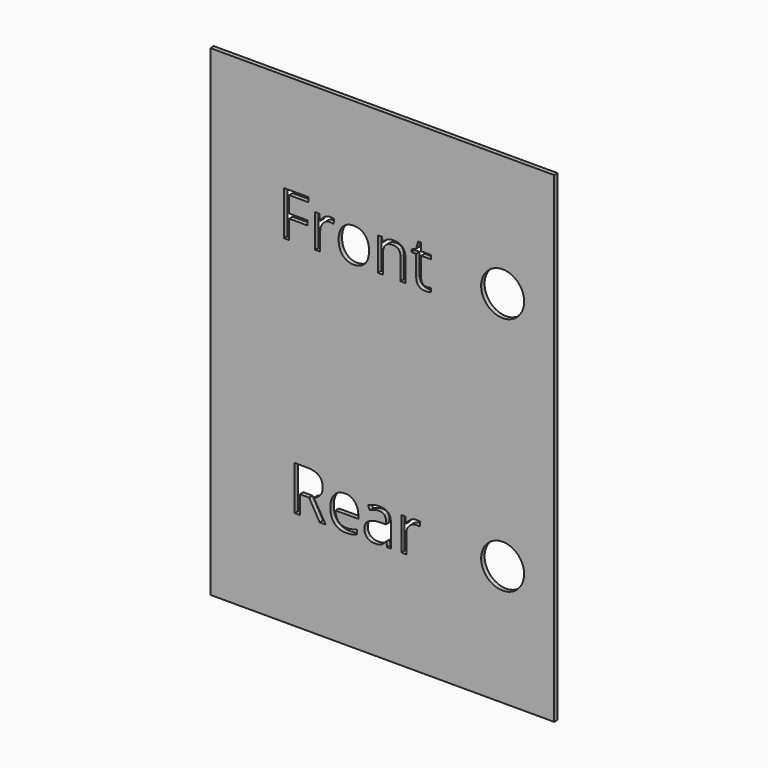
from build123d import *

# Parameters (mm, degrees)
F0_W     = 127
F0_H     = 177.8
F0_R     = 7.9375
F1_DEPTH = 1.5875


with BuildPart() as f1:
    # F0 (on Front) → F1 (new body)
    with BuildSketch(Plane.XZ):
        with Locations((15.797170043, -23.5845072627)):
            Rectangle(F0_W, F0_H)
        with BuildLine():
            add(Edge.make_bspline(
                [(4.5639635549, -75.8121090378), (3.6895127269, -75.9977067646), (2.4510048194, -75.9977067646)],
                knots=[0, 0, 0, 1, 1, 1], degree=2))
            add(Edge.make_bspline(
                [(2.4510048194, -75.9977067646), (-0.258008154, -75.9977067646), (-1.8266658638, -74.345173159)],
                knots=[0, 0, 0, 1, 1, 1], degree=2))
            add(Edge.make_bspline(
                [(-1.8266658638, -74.345173159), (-3.3953235737, -72.6926395534), (-3.3953235737, -69.7623369827)],
                knots=[0, 0, 0, 1, 1, 1], degree=2))
            add(Edge.make_bspline(
                [(-3.3953235737, -69.7623369827), (-3.3953235737, -66.8034809156), (-1.939095256, -65.0635022272)],
                knots=[0, 0, 0, 1, 1, 1], degree=2))
            add(Edge.make_bspline(
                [(-1.939095256, -65.0635022272), (-0.4828669383, -63.3235235388), (1.9727337543, -63.3235235388)],
                knots=[0, 0, 0, 1, 1, 1], degree=2))
            add(Edge.make_bspline(
                [(1.9727337543, -63.3235235388), (4.2677210295, -63.3235235388), (5.6061661744, -64.8350742558)],
                knots=[0, 0, 0, 1, 1, 1], degree=2))
            add(Edge.make_bspline(
                [(5.6061661744, -64.8350742558), (6.9446113193, -66.3466249728), (6.9446113193, -68.8236407877)],
                knots=[0, 0, 0, 1, 1, 1], degree=2))
            Line((6.9446113193, -68.8236407877), (6.9446113193, -69.9943341412))
            Line((6.9446113193, -69.9943341412), (-1.4751009391, -69.9943341412))
            add(Edge.make_bspline(
                [(-1.4751009391, -69.9943341412), (-1.4179939462, -72.1465539342), (-0.3864988879, -73.2619248884)],
                knots=[0, 0, 0, 1, 1, 1], degree=2))
            add(Edge.make_bspline(
                [(-0.3864988879, -73.2619248884), (0.6449961705, -74.3772958425), (2.5188193734, -74.3772958425)],
                knots=[0, 0, 0, 1, 1, 1], degree=2))
            add(Edge.make_bspline(
                [(2.5188193734, -74.3772958425), (4.4925798138, -74.3772958425), (6.4199408225, -73.5528136332)],
                knots=[0, 0, 0, 1, 1, 1], degree=2))
            Line((6.4199408225, -73.5528136332), (6.4199408225, -75.2053472388))
            add(Edge.make_bspline(
                [(6.4199408225, -75.2053472388), (5.4384143829, -75.6265113111), (4.5639635549, -75.8121090378)],
                knots=[0, 0, 0, 1, 1, 1], degree=2))
        make_face(mode=Mode.SUBTRACT)
        with BuildLine():
            Line((18.9941868108, -75.7728479803), (17.6200497954, -75.7728479803))
            Line((17.6200497954, -75.7728479803), (17.2524235289, -74.0310846983))
            Line((17.2524235289, -74.0310846983), (17.1631938526, -74.0310846983))
            add(Edge.make_bspline(
                [(17.1631938526, -74.0310846983), (16.249481967, -75.1803629294), (15.3411238619, -75.589034847)],
                knots=[0, 0, 0, 1, 1, 1], degree=2))
            add(Edge.make_bspline(
                [(15.3411238619, -75.589034847), (14.4327657569, -75.9977067646), (13.0693363026, -75.9977067646)],
                knots=[0, 0, 0, 1, 1, 1], degree=2))
            add(Edge.make_bspline(
                [(13.0693363026, -75.9977067646), (11.2526200925, -75.9977067646), (10.2211250341, -75.0590105696)],
                knots=[0, 0, 0, 1, 1, 1], degree=2))
            add(Edge.make_bspline(
                [(10.2211250341, -75.0590105696), (9.1896299758, -74.1203143746), (9.1896299758, -72.3928278409)],
                knots=[0, 0, 0, 1, 1, 1], degree=2))
            add(Edge.make_bspline(
                [(9.1896299758, -72.3928278409), (9.1896299758, -68.6915808668), (15.110911297, -68.5131215141)],
                knots=[0, 0, 0, 1, 1, 1], degree=2))
            Line((15.110911297, -68.5131215141), (17.1846089749, -68.4453069601))
            Line((17.1846089749, -68.4453069601), (17.1846089749, -67.6850701178))
            add(Edge.make_bspline(
                [(17.1846089749, -67.6850701178), (17.1846089749, -66.2466877354), (16.5671396147, -65.5614038211)],
                knots=[0, 0, 0, 1, 1, 1], degree=2))
            add(Edge.make_bspline(
                [(16.5671396147, -65.5614038211), (15.9496702545, -64.8761199069), (14.5862408002, -64.8761199069)],
                knots=[0, 0, 0, 1, 1, 1], degree=2))
            add(Edge.make_bspline(
                [(14.5862408002, -64.8761199069), (13.0586287414, -64.8761199069), (11.1312677327, -65.8112469149)],
                knots=[0, 0, 0, 1, 1, 1], degree=2))
            Line((11.1312677327, -65.8112469149), (10.5601978042, -64.3942796548))
            add(Edge.make_bspline(
                [(10.5601978042, -64.3942796548), (11.4632021287, -63.9053010285), (12.5393120252, -63.6269044383)],
                knots=[0, 0, 0, 1, 1, 1], degree=2))
            add(Edge.make_bspline(
                [(12.5393120252, -63.6269044383), (13.6154219217, -63.3485078482), (14.7004547859, -63.3485078482)],
                knots=[0, 0, 0, 1, 1, 1], degree=2))
            add(Edge.make_bspline(
                [(14.7004547859, -63.3485078482), (16.8847972624, -63.3485078482), (17.9394920366, -64.3175421331)],
                knots=[0, 0, 0, 1, 1, 1], degree=2))
            add(Edge.make_bspline(
                [(17.9394920366, -64.3175421331), (18.9941868108, -65.2865764181), (18.9941868108, -67.42808865)],
                knots=[0, 0, 0, 1, 1, 1], degree=2))
            Line((18.9941868108, -67.42808865), (18.9941868108, -75.7728479803))
        make_face(mode=Mode.SUBTRACT)
        with BuildLine():
            Line((-11.2546734648, -68.9913925792), (-14.6596779135, -68.9913925792))
            Line((-14.6596779135, -68.9913925792), (-14.6596779135, -75.7728479803))
            Line((-14.6596779135, -75.7728479803), (-16.5549162387, -75.7728479803))
            Line((-16.5549162387, -75.7728479803), (-16.5549162387, -59.4652323343))
            Line((-16.5549162387, -59.4652323343), (-12.0827248611, -59.4652323343))
            add(Edge.make_bspline(
                [(-12.0827248611, -59.4652323343), (-9.0810385494, -59.4652323343), (-7.6480099475, -60.6145105655)],
                knots=[0, 0, 0, 1, 1, 1], degree=2))
            add(Edge.make_bspline(
                [(-7.6480099475, -60.6145105655), (-6.2149813457, -61.7637887966), (-6.2149813457, -64.07305282)],
                knots=[0, 0, 0, 1, 1, 1], degree=2))
            add(Edge.make_bspline(
                [(-6.2149813457, -64.07305282), (-6.2149813457, -67.3067362901), (-9.4950642476, -68.4453069601)],
                knots=[0, 0, 0, 1, 1, 1], degree=2))
            Line((-9.4950642476, -68.4453069601), (-5.0657031146, -75.7728479803))
            Line((-5.0657031146, -75.7728479803), (-7.307152584, -75.7728479803))
            Line((-7.307152584, -75.7728479803), (-11.2546734648, -68.9913925792))
        make_face(mode=Mode.SUBTRACT)
        with BuildLine():
            add(Edge.make_bspline(
                [(26.2753283993, -63.971330989), (27.2354397166, -63.3235235388), (28.3847179477, -63.3235235388)],
                knots=[0, 0, 0, 1, 1, 1], degree=2))
            add(Edge.make_bspline(
                [(28.3847179477, -63.3235235388), (29.1984925958, -63.3235235388), (29.8445154525, -63.4591526468)],
                knots=[0, 0, 0, 1, 1, 1], degree=2))
            Line((29.8445154525, -63.4591526468), (29.5875339846, -65.1759316194))
            add(Edge.make_bspline(
                [(29.5875339846, -65.1759316194), (28.8308663294, -65.0081798279), (28.2490888397, -65.0081798279)],
                knots=[0, 0, 0, 1, 1, 1], degree=2))
            add(Edge.make_bspline(
                [(28.2490888397, -65.0081798279), (26.7643070256, -65.0081798279), (25.7113968449, -66.2127804583)],
                knots=[0, 0, 0, 1, 1, 1], degree=2))
            add(Edge.make_bspline(
                [(25.7113968449, -66.2127804583), (24.6584866642, -67.4173810888), (24.6584866642, -69.2126821765)],
                knots=[0, 0, 0, 1, 1, 1], degree=2))
            Line((24.6584866642, -69.2126821765), (24.6584866642, -75.7728479803))
            Line((24.6584866642, -75.7728479803), (22.8060785836, -75.7728479803))
            Line((22.8060785836, -75.7728479803), (22.8060785836, -63.5483823232))
            Line((22.8060785836, -63.5483823232), (24.3336906424, -63.5483823232))
            Line((24.3336906424, -63.5483823232), (24.5478418656, -65.8112469149))
            Line((24.5478418656, -65.8112469149), (24.6370715419, -65.8112469149))
            add(Edge.make_bspline(
                [(24.6370715419, -65.8112469149), (25.315217082, -64.6191384391), (26.2753283993, -63.971330989)],
                knots=[0, 0, 0, 1, 1, 1], degree=2))
        make_face(mode=Mode.SUBTRACT)
        with Locations((60.247170043, -68.0345072627)):
            Circle(F0_R, mode=Mode.SUBTRACT)
        Polygon((-18.5907954168, 19.3057370016), (-18.5907954168, 12.3351123184), (-20.4860343859, 12.3351123184), (-20.4860343859, 28.642733505), (-11.3953118729, 28.642733505), (-11.3953118729, 26.9580766435), (-18.5907954168, 26.9580766435), (-18.5907954168, 20.990393863), (-11.8307528413, 20.990393863), (-11.8307528413, 19.3057370016), align=None, mode=Mode.SUBTRACT)
        with BuildLine():
            add(Edge.make_bspline(
                [(-5.5061512342, 24.1366333194), (-4.5460395907, 24.7844409896), (-3.3967609691, 24.7844409896)],
                knots=[0, 0, 0, 1, 1, 1], degree=2))
            add(Edge.make_bspline(
                [(-3.3967609691, 24.7844409896), (-2.5829860445, 24.7844409896), (-1.9369629684, 24.6488118355)],
                knots=[0, 0, 0, 1, 1, 1], degree=2))
            Line((-1.9369629684, 24.6488118355), (-2.1939445236, 22.9320322796))
            add(Edge.make_bspline(
                [(-2.1939445236, 22.9320322796), (-2.9506124359, 23.0997841281), (-3.5323901232, 23.0997841281)],
                knots=[0, 0, 0, 1, 1, 1], degree=2))
            add(Edge.make_bspline(
                [(-3.5323901232, 23.0997841281), (-5.0171724418, 23.0997841281), (-6.0700829802, 21.8951830884)],
                knots=[0, 0, 0, 1, 1, 1], degree=2))
            add(Edge.make_bspline(
                [(-6.0700829802, 21.8951830884), (-7.1229935187, 20.6905820487), (-7.1229935187, 18.895280351)],
                knots=[0, 0, 0, 1, 1, 1], degree=2))
            Line((-7.1229935187, 18.895280351), (-7.1229935187, 12.3351123184))
            Line((-7.1229935187, 12.3351123184), (-8.9754022286, 12.3351123184))
            Line((-8.9754022286, 12.3351123184), (-8.9754022286, 24.5595821289))
            Line((-8.9754022286, 24.5595821289), (-7.4477896509, 24.5595821289))
            Line((-7.4477896509, 24.5595821289), (-7.2336383549, 22.2967167683))
            Line((-7.2336383549, 22.2967167683), (-7.1444086483, 22.2967167683))
            add(Edge.make_bspline(
                [(-7.1444086483, 22.2967167683), (-6.4662628777, 23.4888256491), (-5.5061512342, 24.1366333194)],
                knots=[0, 0, 0, 1, 1, 1], degree=2))
        make_face(mode=Mode.SUBTRACT)
        with BuildLine():
            add(Edge.make_bspline(
                [(9.3898559932, 23.0765844044), (10.9014072238, 21.3687278192), (10.9014072238, 18.4598393826)],
                knots=[0, 0, 0, 1, 1, 1], degree=2))
            add(Edge.make_bspline(
                [(10.9014072238, 18.4598393826), (10.9014072238, 15.4688596158), (9.3969943697, 13.7895565367)],
                knots=[0, 0, 0, 1, 1, 1], degree=2))
            add(Edge.make_bspline(
                [(9.3969943697, 13.7895565367), (7.8925815157, 12.1102534576), (5.2371054459, 12.1102534576)],
                knots=[0, 0, 0, 1, 1, 1], degree=2))
            add(Edge.make_bspline(
                [(5.2371054459, 12.1102534576), (3.5952788436, 12.1102534576), (2.324647821, 12.8811981231)],
                knots=[0, 0, 0, 1, 1, 1], degree=2))
            add(Edge.make_bspline(
                [(2.324647821, 12.8811981231), (1.0540167984, 13.6521427885), (0.3615942748, 15.0905256596)],
                knots=[0, 0, 0, 1, 1, 1], degree=2))
            add(Edge.make_bspline(
                [(0.3615942748, 15.0905256596), (-0.3308282488, 16.5289085307), (-0.3308282488, 18.4598393826)],
                knots=[0, 0, 0, 1, 1, 1], degree=2))
            add(Edge.make_bspline(
                [(-0.3308282488, 18.4598393826), (-0.3308282488, 21.4472499611), (1.1646616346, 23.1158454753)],
                knots=[0, 0, 0, 1, 1, 1], degree=2))
            add(Edge.make_bspline(
                [(1.1646616346, 23.1158454753), (2.660151518, 24.7844409896), (5.3156275877, 24.7844409896)],
                knots=[0, 0, 0, 1, 1, 1], degree=2))
            add(Edge.make_bspline(
                [(5.3156275877, 24.7844409896), (7.8783047626, 24.7844409896), (9.3898559932, 23.0765844044)],
                knots=[0, 0, 0, 1, 1, 1], degree=2))
        make_face(mode=Mode.SUBTRACT)
        with BuildLine():
            Line((24.3679545507, 12.3351123184), (22.5155458408, 12.3351123184))
            Line((22.5155458408, 12.3351123184), (22.5155458408, 20.2444335155))
            add(Edge.make_bspline(
                [(22.5155458408, 20.2444335155), (22.5155458408, 21.7363542106), (21.8356154761, 22.4733915875)],
                knots=[0, 0, 0, 1, 1, 1], degree=2))
            add(Edge.make_bspline(
                [(21.8356154761, 22.4733915875), (21.1556851115, 23.2104289644), (19.7030254873, 23.2104289644)],
                knots=[0, 0, 0, 1, 1, 1], degree=2))
            add(Edge.make_bspline(
                [(19.7030254873, 23.2104289644), (17.7863713886, 23.2104289644), (16.8940743221, 22.1735797732)],
                knots=[0, 0, 0, 1, 1, 1], degree=2))
            add(Edge.make_bspline(
                [(16.8940743221, 22.1735797732), (16.0017772556, 21.1367305819), (16.0017772556, 18.7489436321)],
                knots=[0, 0, 0, 1, 1, 1], degree=2))
            Line((16.0017772556, 18.7489436321), (16.0017772556, 12.3351123184))
            Line((16.0017772556, 12.3351123184), (14.1493685457, 12.3351123184))
            Line((14.1493685457, 12.3351123184), (14.1493685457, 24.5595821289))
            Line((14.1493685457, 24.5595821289), (15.6555659939, 24.5595821289))
            Line((15.6555659939, 24.5595821289), (15.9553778082, 22.8856328322))
            Line((15.9553778082, 22.8856328322), (16.0446075148, 22.8856328322))
            add(Edge.make_bspline(
                [(16.0446075148, 22.8856328322), (16.6156776374, 23.7886374634), (17.6418192638, 24.2865392265)],
                knots=[0, 0, 0, 1, 1, 1], degree=2))
            add(Edge.make_bspline(
                [(17.6418192638, 24.2865392265), (18.6679608902, 24.7844409896), (19.9278843481, 24.7844409896)],
                knots=[0, 0, 0, 1, 1, 1], degree=2))
            add(Edge.make_bspline(
                [(19.9278843481, 24.7844409896), (22.1372118846, 24.7844409896), (23.2525832177, 23.7190382923)],
                knots=[0, 0, 0, 1, 1, 1], degree=2))
            add(Edge.make_bspline(
                [(23.2525832177, 23.7190382923), (24.3679545507, 22.6536355949), (24.3679545507, 20.3086789043)],
                knots=[0, 0, 0, 1, 1, 1], degree=2))
            Line((24.3679545507, 20.3086789043), (24.3679545507, 12.3351123184))
        make_face(mode=Mode.SUBTRACT)
        with BuildLine():
            add(Edge.make_bspline(
                [(30.6782794047, 14.2321358817), (31.2029500798, 13.6414352237), (32.1166622759, 13.6414352237)],
                knots=[0, 0, 0, 1, 1, 1], degree=2))
            add(Edge.make_bspline(
                [(32.1166622759, 13.6414352237), (32.6092102565, 13.6414352237), (33.0660663546, 13.712818989)],
                knots=[0, 0, 0, 1, 1, 1], degree=2))
            add(Edge.make_bspline(
                [(33.0660663546, 13.712818989), (33.5229224526, 13.7842027543), (33.7906115725, 13.8627248962)],
                knots=[0, 0, 0, 1, 1, 1], degree=2))
            Line((33.7906115725, 13.8627248962), (33.7906115725, 12.4457571546))
            add(Edge.make_bspline(
                [(33.7906115725, 12.4457571546), (33.4907997582, 12.302989624), (32.9054528826, 12.2066215408)],
                knots=[0, 0, 0, 1, 1, 1], degree=2))
            add(Edge.make_bspline(
                [(32.9054528826, 12.2066215408), (32.320106007, 12.1102534576), (31.8489731559, 12.1102534576)],
                knots=[0, 0, 0, 1, 1, 1], degree=2))
            add(Edge.make_bspline(
                [(31.8489731559, 12.1102534576), (28.3047692079, 12.1102534576), (28.3047692079, 15.847193572)],
                knots=[0, 0, 0, 1, 1, 1], degree=2))
            Line((28.3047692079, 15.847193572), (28.3047692079, 23.1211992577))
            Line((28.3047692079, 23.1211992577), (26.5522977694, 23.1211992577))
            Line((26.5522977694, 23.1211992577), (26.5522977694, 24.0134963242))
            Line((26.5522977694, 24.0134963242), (28.3047692079, 24.7844409896))
            Line((28.3047692079, 24.7844409896), (29.0828522499, 27.3935176119))
            Line((29.0828522499, 27.3935176119), (30.1536087296, 27.3935176119))
            Line((30.1536087296, 27.3935176119), (30.1536087296, 24.5595821289))
            Line((30.1536087296, 24.5595821289), (33.7013818659, 24.5595821289))
            Line((33.7013818659, 24.5595821289), (33.7013818659, 23.1211992577))
            Line((33.7013818659, 23.1211992577), (30.1536087296, 23.1211992577))
            Line((30.1536087296, 23.1211992577), (30.1536087296, 15.9257157138))
            add(Edge.make_bspline(
                [(30.1536087296, 15.9257157138), (30.1536087296, 14.8228365397), (30.6782794047, 14.2321358817)],
                knots=[0, 0, 0, 1, 1, 1], degree=2))
        make_face(mode=Mode.SUBTRACT)
        with Locations((60.247170043, 20.5585220829)):
            Circle(F0_R, mode=Mode.SUBTRACT)
    extrude(amount=F1_DEPTH)


solid = f1.part
